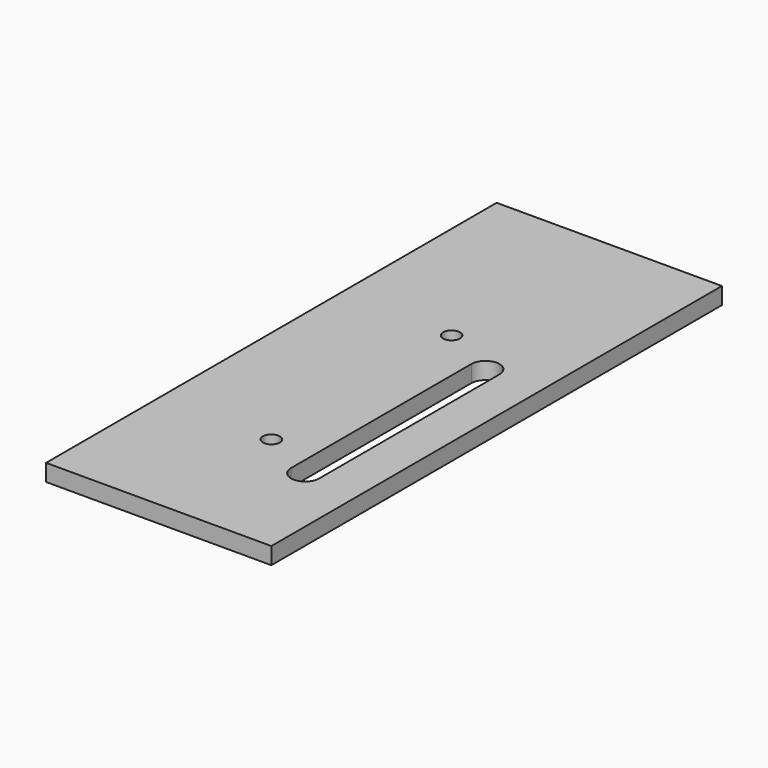
from build123d import *

# Parameters (mm, degrees)
F1_DEPTH = 3
F3_D     = 3
F6_DEPTH = 25


with BuildPart() as f1:
    # F0 (on Top) → F1 (new body)
    with BuildSketch(Plane.XY):
        Polygon((0, 100), (0, 0), (5.765755, 0), (40, 0), (40, 100), align=None)
    extrude(amount=F1_DEPTH)

    # F3 (through all)
    with Locations(Plane.XY.offset(3)):
        with Locations((20, 65), (20, 25)):
            Hole(F3_D / 2)

    # F5 (on face) → F6 (cut)
    with BuildSketch(Plane.XY.offset(3)):
        with BuildLine():
            ThreePointArc((27.5, 20), (30, 17.5), (32.5, 20))
            Line((32.5, 20), (32.5, 60))
            ThreePointArc((32.5, 60), (30, 62.5), (27.5, 60))
            Line((27.5, 60), (27.5, 20))
        make_face()
    extrude(amount=-F6_DEPTH, mode=Mode.SUBTRACT)


solid = f1.part
